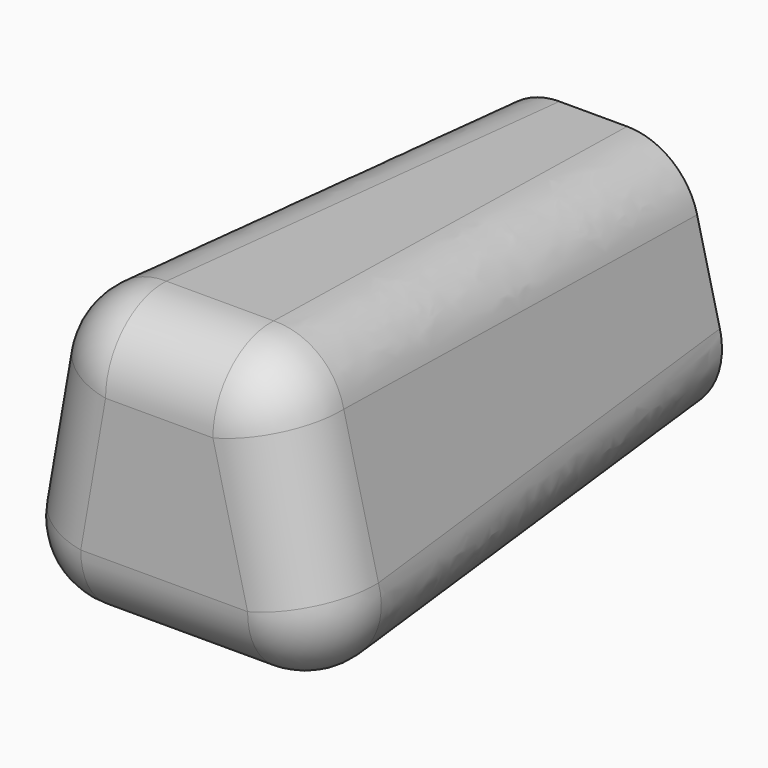
from build123d import *

# Parameters (mm, degrees)
F1_DEPTH = 150
F1_TAPER = -3
F2_R     = 20


with BuildPart() as f1:
    # F0 (on Front) → F1 (new body)
    with BuildSketch(Plane.XZ):
        Polygon((-41.3251072168, 52.0007610321), (-52.8043024242, -13.6602437124), (25.9429831058, -13.6602437124), (9.8721086979, 52.0007610321), align=None)
    extrude(amount=F1_DEPTH, taper=F1_TAPER)

    # F2
    f2_edges = [f1.edges().sort_by_distance(p)[0] for p in [
        (-44.628141, -75, 55.931344),
        (12.95668, -75, 55.931344),
        (30.951616, -75, -17.590827),
        (-57.481665, -75, -17.590827),
        (-13.09939, -150, -21.521411),
        (-15.944961, -150, 59.861928),
        (-55.045101, -150, 19.170259),
        (26.00075, -150, 19.170259),
    ]]
    fillet(f2_edges, radius=F2_R)


solid = f1.part
